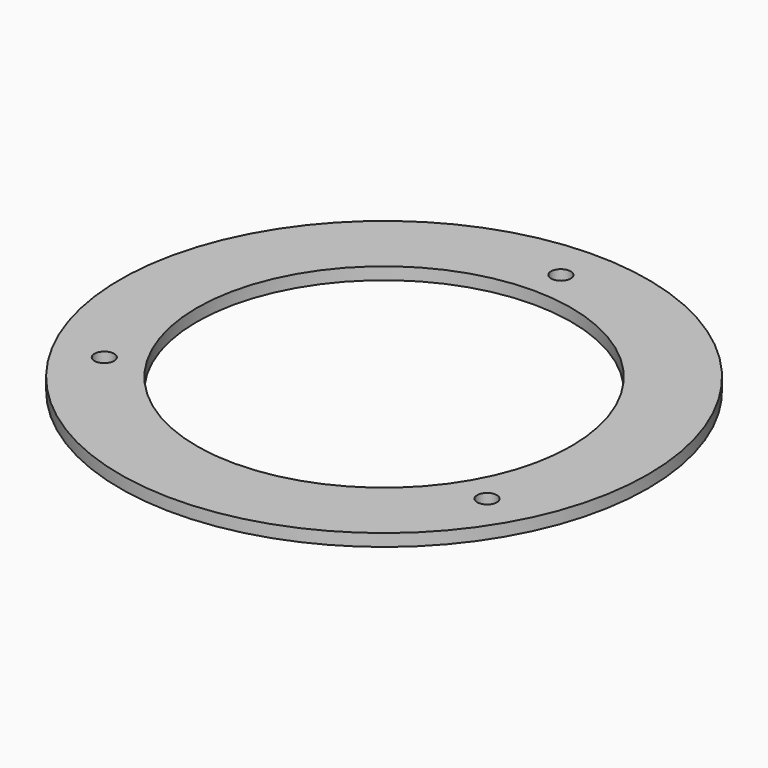
from build123d import *

# Parameters (mm, degrees)
SKETCH006_R   = 43
SKETCH006_R_2 = 1.6
SKETCH006_R_3 = 30.5
PAD_DEPTH     = 2


with BuildPart() as part:
    # Sketch006 → Pad (new body)
    with BuildSketch(Plane.XY.offset(22)):
        Circle(SKETCH006_R)
        with Locations((0, 36)):
            Circle(SKETCH006_R_2, mode=Mode.SUBTRACT)
        with Locations((31.176915, -18)):
            Circle(SKETCH006_R_2, mode=Mode.SUBTRACT)
        with Locations((-31.176915, -18)):
            Circle(SKETCH006_R_2, mode=Mode.SUBTRACT)
        Circle(SKETCH006_R_3, mode=Mode.SUBTRACT)
    extrude(amount=PAD_DEPTH)


solid = part.part
